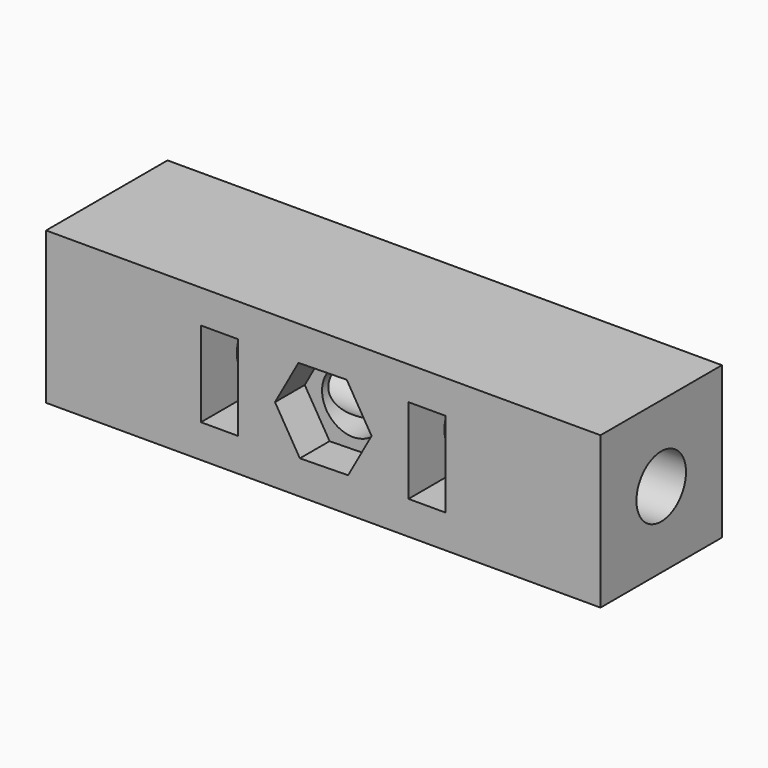
from build123d import *

# Parameters (mm, degrees)
F0_W     = 35.8
F0_H     = 9.8
F1_DEPTH = 9.8
F2_R     = 2
F3_DEPTH = 25
F5_DEPTH = 2.4
F6_R     = 2
F7_DEPTH = 40
F8_W     = 2.4
F8_H     = 5.5
F9_DEPTH = 25


with BuildPart() as f1:
    # F0 (on Front) → F1 (new body)
    with BuildSketch(Plane.XZ):
        Rectangle(F0_W, F0_H)
    extrude(amount=F1_DEPTH)

    # F2 (on face) → F3 (cut)
    with BuildSketch(Plane.XZ.offset(9.8)):
        Circle(F2_R)
    extrude(amount=-F3_DEPTH, mode=Mode.SUBTRACT)

    # F4 (on face) → F5 (cut)
    with BuildSketch(Plane.XZ.offset(9.8)):
        Polygon((-1.603947, 2.673454), (-3.117252, -0.052332), (-1.513305, -2.725785), (1.603947, -2.673454), (3.117252, 0.052332), (1.513305, 2.725785), align=None)
    extrude(amount=-F5_DEPTH, mode=Mode.SUBTRACT)

    # F6 (on face) → F7 (cut)
    with BuildSketch(Plane.YZ.offset(17.9)):
        with Locations((-4.9, 0)):
            Circle(F6_R)
    extrude(amount=-F7_DEPTH, mode=Mode.SUBTRACT)

    # F8 (on face) → F9 (cut)
    with BuildSketch(Plane.XZ.offset(9.8)):
        with Locations((6.7, 0)):
            Rectangle(F8_W, F8_H)
        with Locations((-6.7, 0)):
            Rectangle(F8_W, F8_H)
    extrude(amount=-F9_DEPTH, mode=Mode.SUBTRACT)


solid = f1.part
